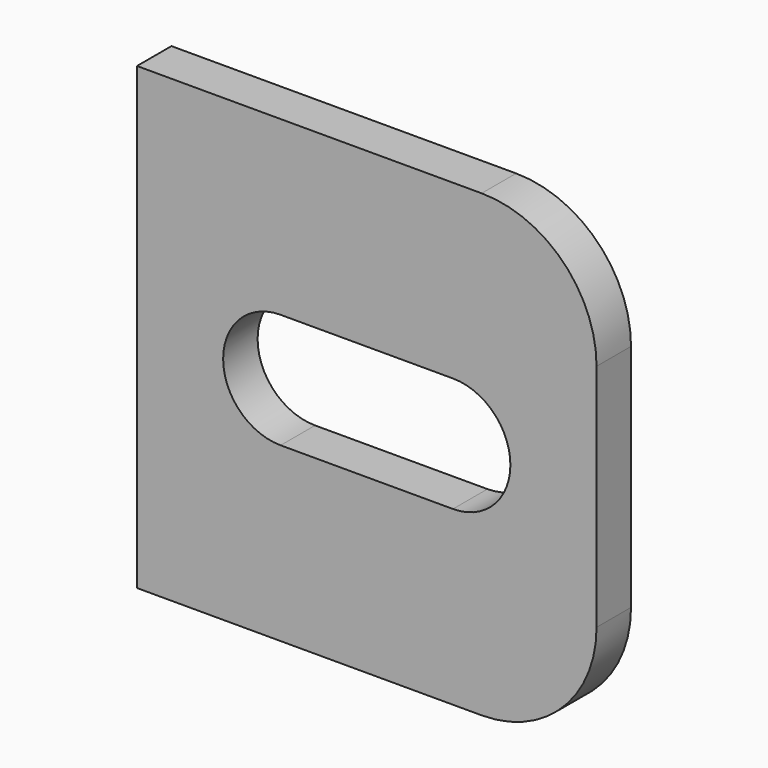
from build123d import *

# Parameters (mm, degrees)
F1_DEPTH = 4.7625


with BuildPart() as f1:
    # F0 (on Front) → F1 (new body)
    with BuildSketch(Plane.XZ):
        with BuildLine():
            Line((0, 50.8), (0, 0))
            Line((0, 0), (38.1, 0))
            ThreePointArc((38.1, 0), (47.080256, 3.719744), (50.8, 12.7))
            Line((50.8, 12.7), (50.8, 38.1))
            ThreePointArc((50.8, 38.1), (47.080256, 47.080256), (38.1, 50.8))
            Line((38.1, 50.8), (0, 50.8))
        make_face()
        with BuildLine():
            Line((34.925, 19.05), (15.875, 19.05))
            ThreePointArc((15.875, 19.05), (9.525, 25.4), (15.875, 31.75))
            Line((15.875, 31.75), (34.925, 31.75))
            ThreePointArc((34.925, 31.75), (41.275, 25.4), (34.925, 19.05))
        make_face(mode=Mode.SUBTRACT)
    extrude(amount=F1_DEPTH)


solid = f1.part
